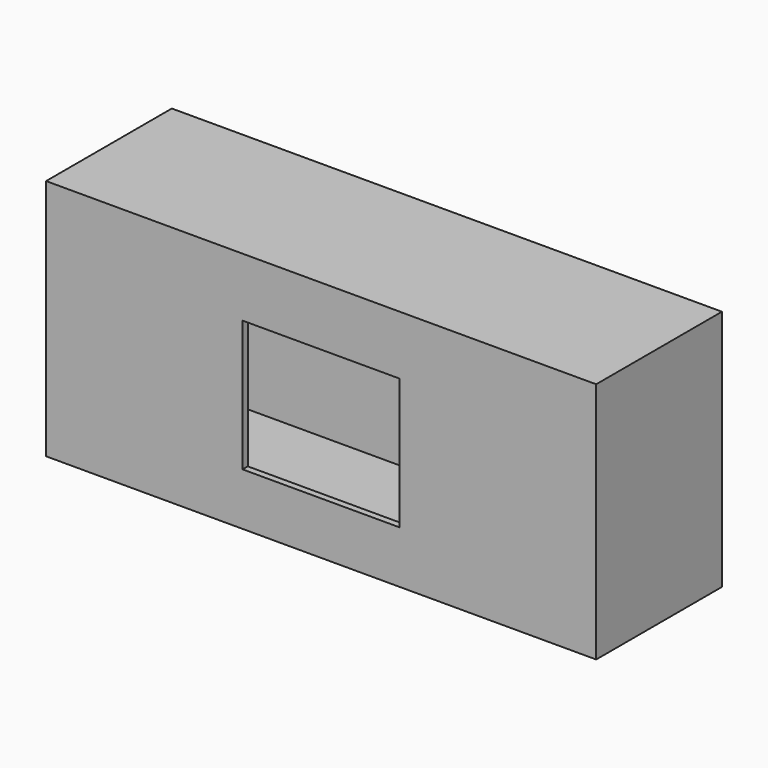
from build123d import *

# Parameters (mm, degrees)
F0_W     = 210
F0_H     = 60
F1_DEPTH = 90
F2_T     = -2.5
F3_W     = 210
F3_H     = 60
F3_W_2   = 205
F3_H_2   = 55
F4_DEPTH = 2.5
F5_W     = 60
F5_H     = 50
F6_DEPTH = 25


with BuildPart() as f1:
    # F0 (on Top) → F1 (new body)
    with BuildSketch(Plane.XY):
        with Locations((2.4435054511, -41.2361205323)):
            Rectangle(F0_W, F0_H)
    extrude(amount=F1_DEPTH)

    # F2
    f2_openings = [f1.faces().sort_by_distance(p)[0] for p in [
        (2.443505, -41.236121, 90),
    ]]
    offset(amount=F2_T, openings=f2_openings)

    # F3 (on face) → F4 (join)
    with BuildSketch(Plane.XY.offset(90)):
        with Locations((2.4435054511, -41.2361205323)):
            Rectangle(F3_W, F3_H)
        with Locations((2.4435054511, -41.2361205323)):
            Rectangle(F3_W_2, F3_H_2, mode=Mode.SUBTRACT)
        with Locations((2.4435054511, -41.2361205323)):
            Rectangle(F3_W_2, F3_H_2)
    extrude(amount=F4_DEPTH)

    # F5 (on face) → F6 (cut)
    with BuildSketch(Plane.XZ.offset(71.2361205323)):
        with Locations((2.4435054511, 45)):
            Rectangle(F5_W, F5_H)
    extrude(amount=-F6_DEPTH, mode=Mode.SUBTRACT)


solid = f1.part
